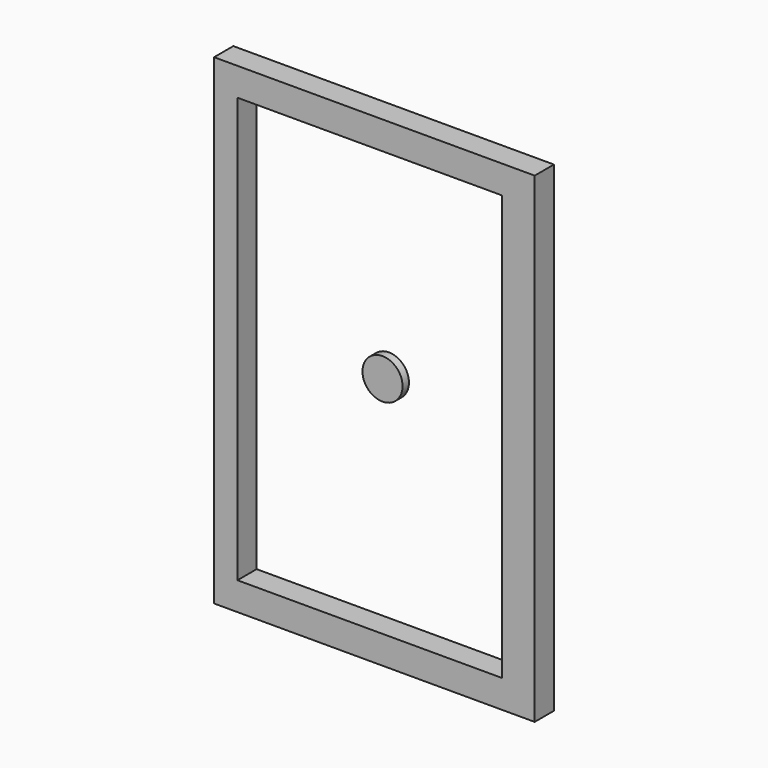
from build123d import *

# Parameters (mm, degrees)
F0_W     = 101.6
F0_H     = 152.4
F1_DEPTH = 7.62
F2_W     = 83.82
F2_H     = 134.62
F3_DEPTH = 25.4
F4_R     = 6.35
F5_DEPTH = 2.54


with BuildPart() as f1:
    # F0 (on Front) → F1 (new body)
    with BuildSketch(Plane.XZ):
        with Locations((1.487515, 0)):
            Rectangle(F0_W, F0_H)
    extrude(amount=F1_DEPTH)

    # F2 (on face) → F3 (cut)
    with BuildSketch(Plane.XZ.offset(7.62)):
        Rectangle(F2_W, F2_H)
    extrude(amount=-F3_DEPTH, mode=Mode.SUBTRACT)


with BuildPart() as f5:
    # F4 (on Front) → F5 (new body)
    with BuildSketch(Plane.XZ):
        with Locations((0, 0.441222)):
            Circle(F4_R)
    extrude(amount=F5_DEPTH)


solid = Compound([f1.part, f5.part])
